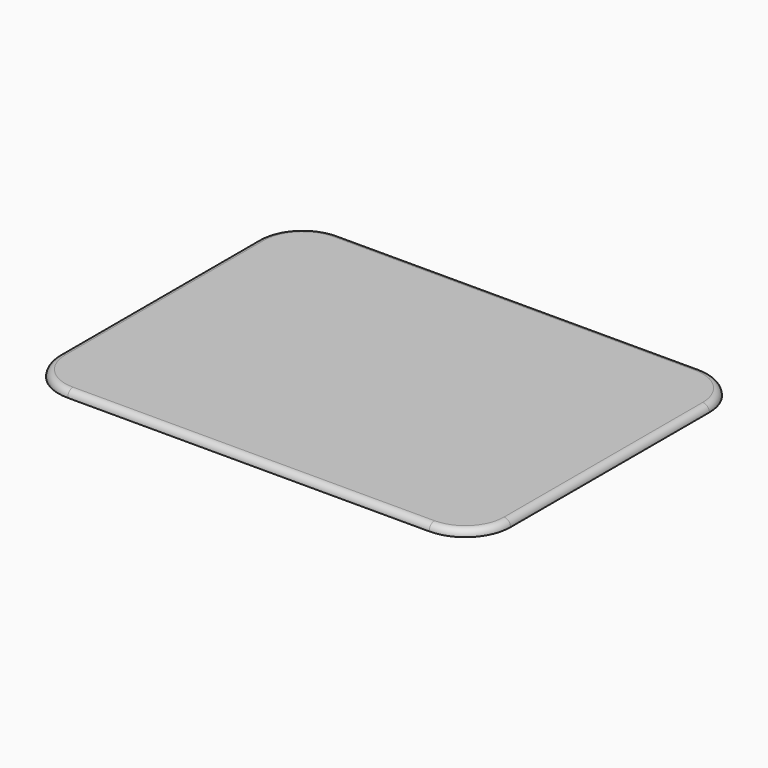
from build123d import *

# Parameters (mm, degrees)
PAD_DEPTH = 0.3
FILLET_R  = 0.29


with BuildPart() as part:
    # Sketch → Pad (new body)
    with BuildSketch(Plane.XY):
        with BuildLine():
            Line((-8, 7.5), (8, 7.5))
            ThreePointArc((10, 5.5), (9.414214, 6.914214), (8, 7.5))
            Line((10, 5.5), (10, -5.5))
            ThreePointArc((8, -7.5), (9.414214, -6.914214), (10, -5.5))
            Line((8, -7.5), (-8, -7.5))
            ThreePointArc((-10, -5.5), (-9.414214, -6.914214), (-8, -7.5))
            Line((-10, -5.5), (-10, 5.5))
            ThreePointArc((-8, 7.5), (-9.414214, 6.914214), (-10, 5.5))
        make_face()
    extrude(amount=PAD_DEPTH)

    # Fillet
    fillet_edges = [part.edges().sort_by_distance(p)[0] for p in [
        (0, 7.5, 0.3),
        (-9.414214, 6.914214, 0.3),
        (-10, 0, 0.3),
        (-9.414214, -6.914214, 0.3),
        (0, -7.5, 0.3),
        (9.414214, -6.914214, 0.3),
        (10, 0, 0.3),
        (9.414214, 6.914214, 0.3),
    ]]
    fillet(fillet_edges, radius=FILLET_R)


solid = part.part
